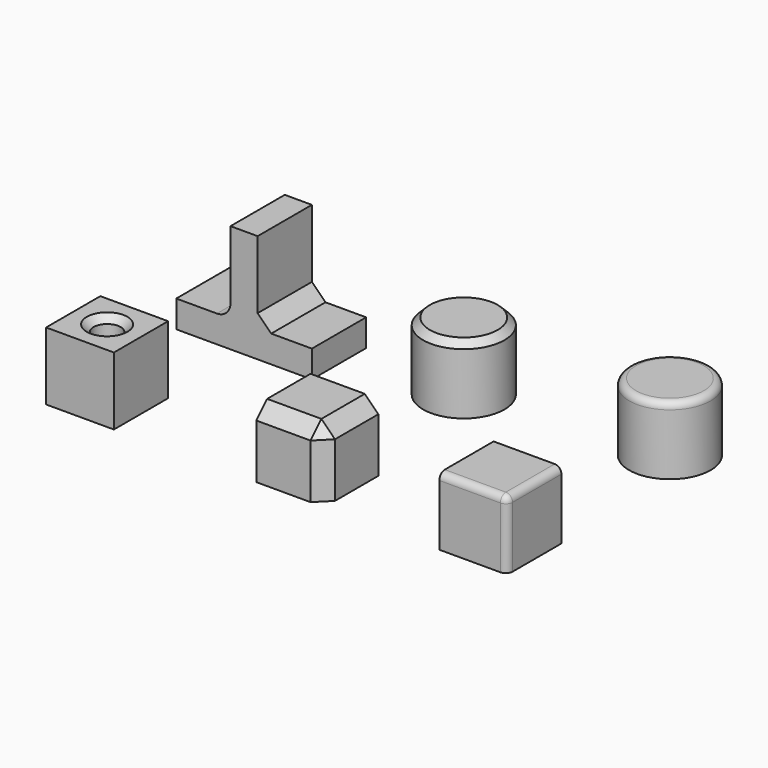
from build123d import *

# Parameters (mm, degrees)
BOX_W             = 10
BOX_H             = 10
BOX_DEPTH         = 10
FILLET_R          = 1
BOX001_W          = 10
BOX001_H          = 10
BOX001_DEPTH      = 10
CHAMFER_SIZE      = 2
CYLINDER_R        = 2
CYLINDER_DEPTH    = 10
BOX002_W          = 10
BOX002_H          = 10
BOX002_DEPTH      = 10
CHAMFER001_SIZE   = 1
CYLINDER001_R     = 6
CYLINDER001_DEPTH = 10
FILLET001_R       = 1
CYLINDER002_R     = 6
CYLINDER002_DEPTH = 10
CHAMFER002_SIZE   = 1
BOX003_W          = 20
BOX003_H          = 10
BOX003_DEPTH      = 4
BOX004_W          = 4
BOX004_H          = 10
BOX004_DEPTH      = 16
FILLET002_R       = 2
CHAMFER003_SIZE   = 2


with BuildPart() as fillet_body:
    # Box → Box (new body)
    with BuildSketch(Plane(origin=(40, 0, 0), x_dir=(1, 0, 0), z_dir=(0, 0, 1))):
        with Locations((5, 5)):
            Rectangle(BOX_W, BOX_H)
    extrude(amount=BOX_DEPTH)

    # Fillet
    fillet_edges = [fillet_body.edges().sort_by_distance(p)[0] for p in [
        (50, 0, 5),
        (50, 5, 10),
        (45, 0, 10),
    ]]
    fillet(fillet_edges, radius=FILLET_R)


with BuildPart() as fillet_body_1:
    # Fillet placement: moved
    add(fillet_body.part.moved(Location((18, 0, 0))))


with BuildPart() as chamfer_body:
    # Box001 → Box001 (new body)
    with BuildSketch(Plane(origin=(31, 0, 0), x_dir=(1, 0, 0), z_dir=(0, 0, 1))):
        with Locations((5, 5)):
            Rectangle(BOX001_W, BOX001_H)
    extrude(amount=BOX001_DEPTH)

    # Chamfer
    chamfer_edges = [chamfer_body.edges().sort_by_distance(p)[0] for p in [
        (41, 0, 5),
        (41, 5, 10),
        (36, 0, 10),
    ]]
    chamfer(chamfer_edges, length=CHAMFER_SIZE)


with BuildPart() as cilindre:
    # Cylinder → Cylinder (new body)
    with BuildSketch(Plane(origin=(5, 5, 0), x_dir=(1, 0, 0), z_dir=(0, 0, 1))):
        Circle(CYLINDER_R)
    extrude(amount=CYLINDER_DEPTH)


with BuildPart() as chamfer001:
    # Box002 → Box002 (new body)
    with BuildSketch(Plane.XY):
        with Locations((5, 5)):
            Rectangle(BOX002_W, BOX002_H)
    extrude(amount=BOX002_DEPTH)

    # Cut: cut Cilindre
    add(cilindre.part, mode=Mode.SUBTRACT)

    # Chamfer001
    chamfer001_edges = [chamfer001.edges().sort_by_distance(p)[0] for p in [
        (3, 5, 10),
    ]]
    chamfer(chamfer001_edges, length=CHAMFER001_SIZE)


with BuildPart() as fillet001:
    # Cylinder001 → Cylinder001 (new body)
    with BuildSketch(Plane(origin=(64, 35, 0), x_dir=(1, 0, 0), z_dir=(0, 0, 1))):
        Circle(CYLINDER001_R)
    extrude(amount=CYLINDER001_DEPTH)

    # Fillet001
    fillet001_edges = [fillet001.edges().sort_by_distance(p)[0] for p in [
        (58, 35, 10),
    ]]
    fillet(fillet001_edges, radius=FILLET001_R)


with BuildPart() as chamfer002:
    # Cylinder002 → Cylinder002 (new body)
    with BuildSketch(Plane(origin=(36, 32, 0), x_dir=(1, 0, 0), z_dir=(0, 0, 1))):
        Circle(CYLINDER002_R)
    extrude(amount=CYLINDER002_DEPTH)

    # Chamfer002
    chamfer002_edges = [chamfer002.edges().sort_by_distance(p)[0] for p in [
        (30, 32, 10),
    ]]
    chamfer(chamfer002_edges, length=CHAMFER002_SIZE)


with BuildPart() as cub003:
    # Box003 → Box003 (new body)
    with BuildSketch(Plane(origin=(0, 24, 0), x_dir=(1, 0, 0), z_dir=(0, 0, 1))):
        with Locations((10, 5)):
            Rectangle(BOX003_W, BOX003_H)
    extrude(amount=BOX003_DEPTH)


with BuildPart() as chamfer003:
    # Box004 → Box004 (new body)
    with BuildSketch(Plane(origin=(8, 24, 0), x_dir=(1, 0, 0), z_dir=(0, 0, 1))):
        with Locations((2, 5)):
            Rectangle(BOX004_W, BOX004_H)
    extrude(amount=BOX004_DEPTH)

    # Fusion: union Cub003
    add(cub003.part)

    # Fillet002
    fillet002_edges = [chamfer003.edges().sort_by_distance(p)[0] for p in [
        (8, 29, 4),
    ]]
    fillet(fillet002_edges, radius=FILLET002_R)

    # Chamfer003
    chamfer003_edges = [chamfer003.edges().sort_by_distance(p)[0] for p in [
        (12, 29, 4),
    ]]
    chamfer(chamfer003_edges, length=CHAMFER003_SIZE)


solid = Compound([fillet_body_1.part, chamfer_body.part, chamfer001.part, fillet001.part, chamfer002.part, chamfer003.part])
